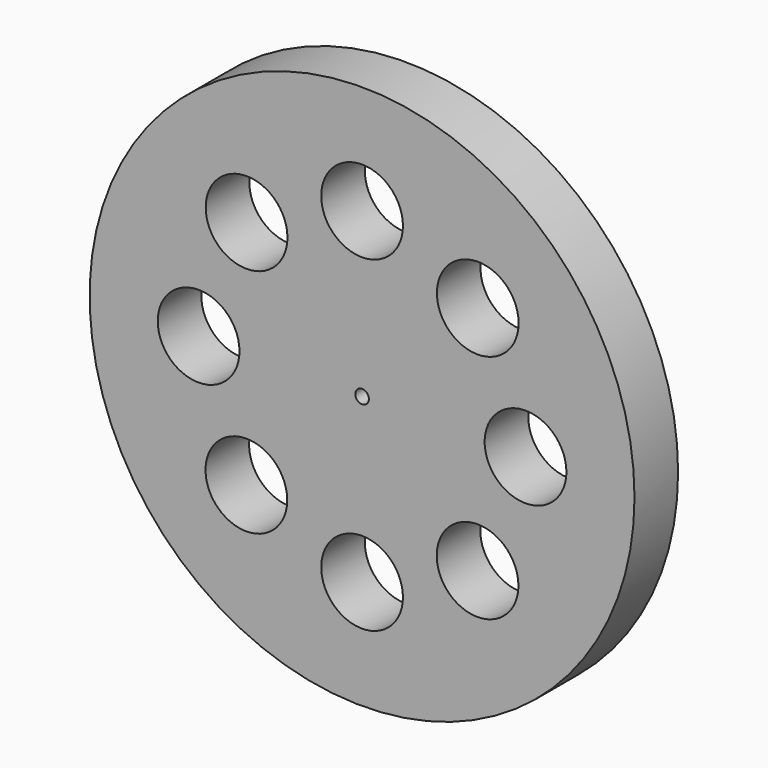
from build123d import *

# Parameters (mm, degrees)
F0_R     = 63.5
F0_R_2   = 9.525
F0_R_3   = 1.5875
F1_DEPTH = 12.7


with BuildPart() as f1:
    # F0 (on Front) → F1 (new body)
    with BuildSketch(Plane.XZ):
        Circle(F0_R)
        with Locations((-26.963605, -26.917913)):
            Circle(F0_R_2, mode=Mode.SUBTRACT)
        with Locations((0, -38.1)):
            Circle(F0_R_2, mode=Mode.SUBTRACT)
        with Locations((26.917913, -26.963605)):
            Circle(F0_R_2, mode=Mode.SUBTRACT)
        with Locations((-38.1, 0)):
            Circle(F0_R_2, mode=Mode.SUBTRACT)
        with Locations((-26.917913, 26.963605)):
            Circle(F0_R_2, mode=Mode.SUBTRACT)
        Circle(F0_R_3, mode=Mode.SUBTRACT)
        with Locations((26.963605, 26.917913)):
            Circle(F0_R_2, mode=Mode.SUBTRACT)
        with Locations((38.1, 0)):
            Circle(F0_R_2, mode=Mode.SUBTRACT)
        with Locations((0, 38.1)):
            Circle(F0_R_2, mode=Mode.SUBTRACT)
    extrude(amount=F1_DEPTH)


solid = f1.part
